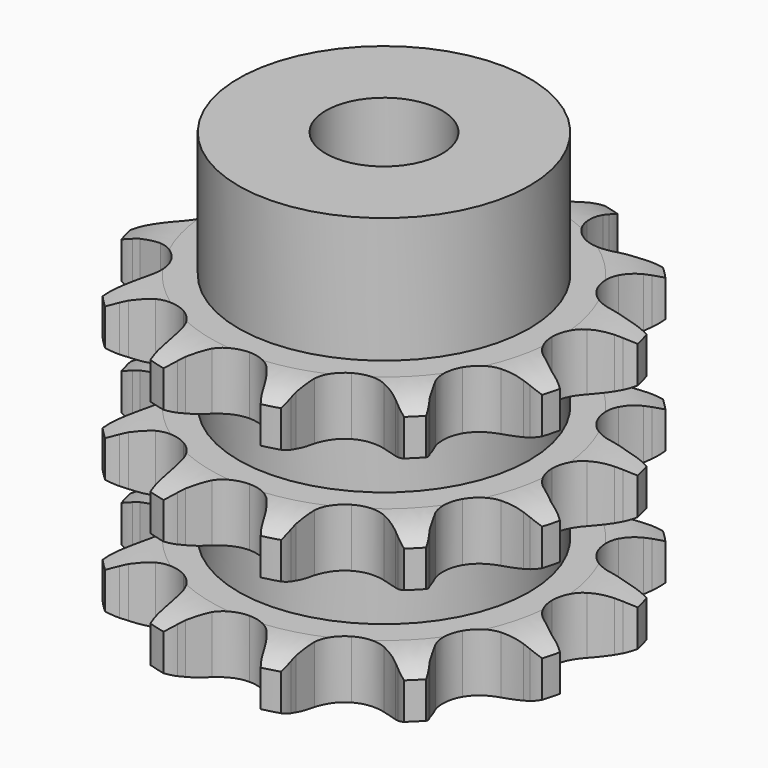
from build123d import *

# Parameters (mm, degrees)
PAD_DEPTH         = 34.9
SKETCH001_R       = 17.5
PAD001_DEPTH      = 50
SKETCH002_R       = 7
POCKET_DEPTH      = 0.001
POCKET_DEPTH_BACK = 50.001


with BuildPart() as part:
    # Sprocket → Pad (new body)
    with BuildSketch(Plane.XY):
        with BuildLine():
            ThreePointArc((-7.304066, 27.259147), (-6.046597, 26.096506), (-5.100713, 24.668826))
            Line((-5.100713, 24.668826), (-4.724087, 23.918901))
            ThreePointArc((-4.724087, 23.918901), (-4.077378, 22.798769), (-3.305003, 21.761289))
            ThreePointArc((-3.305003, 21.761289), (-1.823334, 20.624364), (0, 20.220141))
            ThreePointArc((0, 20.220141), (1.823334, 20.624364), (3.305003, 21.761289))
            ThreePointArc((3.305003, 21.761289), (4.077378, 22.798769), (4.724087, 23.918901))
            Line((4.724087, 23.918901), (5.100713, 24.668826))
            ThreePointArc((5.100713, 24.668826), (6.046597, 26.096506), (7.304066, 27.259147))
            ThreePointArc((7.304066, 27.259147), (7.811747, 25.623535), (7.917066, 23.914187))
            Line((7.917066, 23.914187), (7.868271, 23.076419))
            ThreePointArc((7.868271, 23.076419), (7.868271, 21.783002), (8.018428, 20.498331))
            ThreePointArc((8.018428, 20.498331), (8.733129, 18.77289), (10.11007, 17.511156))
            ThreePointArc((10.11007, 17.511156), (11.891235, 16.949557), (13.742861, 17.193328))
            Line((13.742861, 17.193328), (16.05063, 18.352333))
            ThreePointArc((16.05063, 18.352333), (16.396844, 18.589518), (16.751761, 18.813474))
            ThreePointArc((16.751761, 18.813474), (18.284759, 19.576939), (19.95508, 19.95508))
            ThreePointArc((19.95508, 19.95508), (19.576939, 18.284759), (18.813474, 16.751761))
            Line((18.813474, 16.751761), (18.352333, 16.05063))
            ThreePointArc((18.352333, 16.05063), (17.705624, 14.930498), (17.193328, 13.742861))
            ThreePointArc((17.193328, 13.742861), (16.949557, 11.891235), (17.511156, 10.11007))
            ThreePointArc((17.511156, 10.11007), (18.77289, 8.733129), (20.498331, 8.018428))
            Line((20.498331, 8.018428), (23.076419, 7.868271))
            ThreePointArc((23.076419, 7.868271), (23.494843, 7.900573), (23.914187, 7.917066))
            ThreePointArc((23.914187, 7.917066), (25.623535, 7.811747), (27.259147, 7.304066))
            ThreePointArc((27.259147, 7.304066), (26.096506, 6.046597), (24.668826, 5.100713))
            Line((24.668826, 5.100713), (23.918901, 4.724087))
            ThreePointArc((23.918901, 4.724087), (22.798769, 4.077378), (21.761289, 3.305003))
            ThreePointArc((21.761289, 3.305003), (20.624364, 1.823334), (20.220141, 0))
            ThreePointArc((20.220141, 0), (20.624364, -1.823334), (21.761289, -3.305003))
            Line((21.761289, -3.305003), (23.918901, -4.724087))
            ThreePointArc((23.918901, -4.724087), (24.297417, -4.905325), (24.668826, -5.100713))
            ThreePointArc((24.668826, -5.100713), (26.096506, -6.046597), (27.259147, -7.304066))
            ThreePointArc((27.259147, -7.304066), (25.623535, -7.811747), (23.914187, -7.917066))
            Line((23.914187, -7.917066), (23.076419, -7.868271))
            ThreePointArc((23.076419, -7.868271), (21.783002, -7.868271), (20.498331, -8.018428))
            ThreePointArc((20.498331, -8.018428), (18.77289, -8.733129), (17.511156, -10.11007))
            ThreePointArc((17.511156, -10.11007), (16.949557, -11.891235), (17.193328, -13.742861))
            Line((17.193328, -13.742861), (18.352333, -16.05063))
            ThreePointArc((18.352333, -16.05063), (18.589518, -16.396844), (18.813474, -16.751761))
            ThreePointArc((18.813474, -16.751761), (19.576939, -18.284759), (19.95508, -19.95508))
            ThreePointArc((19.95508, -19.95508), (18.284759, -19.576939), (16.751761, -18.813474))
            Line((16.751761, -18.813474), (16.05063, -18.352333))
            ThreePointArc((16.05063, -18.352333), (14.930498, -17.705624), (13.742861, -17.193328))
            ThreePointArc((13.742861, -17.193328), (11.891235, -16.949557), (10.11007, -17.511156))
            ThreePointArc((10.11007, -17.511156), (8.733129, -18.77289), (8.018428, -20.498331))
            Line((8.018428, -20.498331), (7.868271, -23.076419))
            ThreePointArc((7.868271, -23.076419), (7.900573, -23.494843), (7.917066, -23.914187))
            ThreePointArc((7.917066, -23.914187), (7.811747, -25.623535), (7.304066, -27.259147))
            ThreePointArc((7.304066, -27.259147), (6.046597, -26.096506), (5.100713, -24.668826))
            Line((5.100713, -24.668826), (4.724087, -23.918901))
            ThreePointArc((4.724087, -23.918901), (4.077378, -22.798769), (3.305003, -21.761289))
            ThreePointArc((3.305003, -21.761289), (1.823334, -20.624364), (0, -20.220141))
            ThreePointArc((0, -20.220141), (-1.823334, -20.624364), (-3.305003, -21.761289))
            Line((-3.305003, -21.761289), (-4.724087, -23.918901))
            ThreePointArc((-4.724087, -23.918901), (-4.905325, -24.297417), (-5.100713, -24.668826))
            ThreePointArc((-5.100713, -24.668826), (-6.046597, -26.096506), (-7.304066, -27.259147))
            ThreePointArc((-7.304066, -27.259147), (-7.811747, -25.623535), (-7.917066, -23.914187))
            Line((-7.917066, -23.914187), (-7.868271, -23.076419))
            ThreePointArc((-7.868271, -23.076419), (-7.868271, -21.783002), (-8.018428, -20.498331))
            ThreePointArc((-8.018428, -20.498331), (-8.733129, -18.77289), (-10.11007, -17.511156))
            ThreePointArc((-10.11007, -17.511156), (-11.891235, -16.949557), (-13.742861, -17.193328))
            Line((-13.742861, -17.193328), (-16.05063, -18.352333))
            ThreePointArc((-16.05063, -18.352333), (-16.396844, -18.589518), (-16.751761, -18.813474))
            ThreePointArc((-16.751761, -18.813474), (-18.284759, -19.576939), (-19.95508, -19.95508))
            ThreePointArc((-19.95508, -19.95508), (-19.576939, -18.284759), (-18.813474, -16.751761))
            Line((-18.813474, -16.751761), (-18.352333, -16.05063))
            ThreePointArc((-18.352333, -16.05063), (-17.705624, -14.930498), (-17.193328, -13.742861))
            ThreePointArc((-17.193328, -13.742861), (-16.949557, -11.891235), (-17.511156, -10.11007))
            ThreePointArc((-17.511156, -10.11007), (-18.77289, -8.733129), (-20.498331, -8.018428))
            Line((-20.498331, -8.018428), (-23.076419, -7.868271))
            ThreePointArc((-23.076419, -7.868271), (-23.494843, -7.900573), (-23.914187, -7.917066))
            ThreePointArc((-23.914187, -7.917066), (-25.623535, -7.811747), (-27.259147, -7.304066))
            ThreePointArc((-27.259147, -7.304066), (-26.096506, -6.046597), (-24.668826, -5.100713))
            Line((-24.668826, -5.100713), (-23.918901, -4.724087))
            ThreePointArc((-23.918901, -4.724087), (-22.798769, -4.077378), (-21.761289, -3.305003))
            ThreePointArc((-21.761289, -3.305003), (-20.624364, -1.823334), (-20.220141, 0))
            ThreePointArc((-20.220141, 0), (-20.624364, 1.823334), (-21.761289, 3.305003))
            Line((-21.761289, 3.305003), (-23.918901, 4.724087))
            ThreePointArc((-23.918901, 4.724087), (-24.297417, 4.905325), (-24.668826, 5.100713))
            ThreePointArc((-24.668826, 5.100713), (-26.096506, 6.046597), (-27.259147, 7.304066))
            ThreePointArc((-27.259147, 7.304066), (-25.623535, 7.811747), (-23.914187, 7.917066))
            Line((-23.914187, 7.917066), (-23.076419, 7.868271))
            ThreePointArc((-23.076419, 7.868271), (-21.783002, 7.868271), (-20.498331, 8.018428))
            ThreePointArc((-20.498331, 8.018428), (-18.77289, 8.733129), (-17.511156, 10.11007))
            ThreePointArc((-17.511156, 10.11007), (-16.949557, 11.891235), (-17.193328, 13.742861))
            Line((-17.193328, 13.742861), (-18.352333, 16.05063))
            ThreePointArc((-18.352333, 16.05063), (-18.589518, 16.396844), (-18.813474, 16.751761))
            ThreePointArc((-18.813474, 16.751761), (-19.576939, 18.284759), (-19.95508, 19.95508))
            ThreePointArc((-19.95508, 19.95508), (-18.284759, 19.576939), (-16.751761, 18.813474))
            Line((-16.751761, 18.813474), (-16.05063, 18.352333))
            ThreePointArc((-16.05063, 18.352333), (-14.930498, 17.705624), (-13.742861, 17.193328))
            ThreePointArc((-13.742861, 17.193328), (-11.891235, 16.949557), (-10.11007, 17.511156))
            ThreePointArc((-10.11007, 17.511156), (-8.733129, 18.77289), (-8.018428, 20.498331))
            Line((-8.018428, 20.498331), (-7.868271, 23.076419))
            ThreePointArc((-7.868271, 23.076419), (-7.900573, 23.494843), (-7.917066, 23.914187))
            ThreePointArc((-7.917066, 23.914187), (-7.811747, 25.623535), (-7.304066, 27.259147))
        make_face()
    extrude(amount=PAD_DEPTH)

    # Sketch → Groove (revolve, cut)
    with BuildSketch(Plane.XZ):
        with BuildLine():
            ThreePointArc((20.833431, 0), (23.74032, 0.329167), (26.5, 1.3))
            Line((26.5, 1.3), (26.5, 5.7))
            ThreePointArc((26.5, 5.7), (23.74032, 6.670833), (20.833431, 7))
            Line((17.5, 7), (20.833431, 7))
            Line((17.5, 7), (17.5, 13.95))
            Line((17.5, 13.95), (20.833431, 13.95))
            ThreePointArc((20.833431, 13.95), (23.74032, 14.279167), (26.5, 15.25))
            Line((26.5, 19.65), (26.5, 15.25))
            ThreePointArc((26.5, 19.65), (23.74032, 20.620833), (20.833431, 20.95))
            Line((17.5, 20.95), (20.833431, 20.95))
            Line((17.5, 27.9), (17.5, 20.95))
            Line((20.833431, 27.9), (17.5, 27.9))
            ThreePointArc((20.833431, 27.9), (23.74032, 28.229167), (26.5, 29.2))
            Line((26.5, 29.2), (26.5, 33.6))
            ThreePointArc((26.5, 33.6), (23.74032, 34.570833), (20.833431, 34.9))
            Line((20.833431, 34.9), (36.5, 34.9))
            Line((36.5, 34.9), (36.5, 0))
            Line((20.833431, 0), (36.5, 0))
        make_face()
    revolve(axis=Axis((0, 0, 0), (0, 0, 1)), mode=Mode.SUBTRACT)

    # Sketch001 → Pad001 (join)
    with BuildSketch(Plane.XY):
        Circle(SKETCH001_R)
    extrude(amount=PAD001_DEPTH)

    # Sketch002 → Pocket (cut, two sides)
    with BuildSketch(Plane.XY) as pocket_sk:
        Circle(SKETCH002_R)
    extrude(amount=-POCKET_DEPTH, mode=Mode.SUBTRACT)
    extrude(pocket_sk.sketch, amount=POCKET_DEPTH_BACK, mode=Mode.SUBTRACT)


solid = part.part
